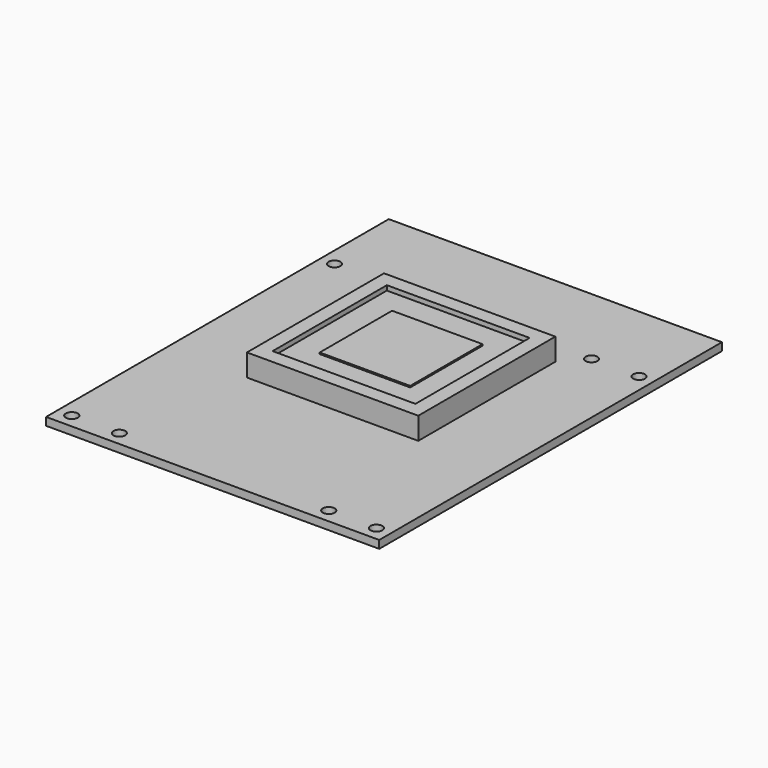
from build123d import *

# Parameters (mm, degrees)
F1_W      = 70
F1_H      = 90
F1_R      = 1.25
F2_DEPTH  = 1.65
F3_W      = 36
F3_H      = 36
F3_W_2    = 30
F3_H_2    = 30
F4_DEPTH  = 4.65
F5_DEPTH  = 0.5
F6_W      = 30
F6_H      = 30
F6_W_2    = 19
F6_H_2    = 19
F7_DEPTH  = 3.15
F8_DEPTH  = 2.15
F9_W      = 3.66
F9_H      = 4.75
F9_W_2    = 2.6
F9_H_2    = 1.96
F10_DEPTH = 1
F11_DEPTH = 1
F12_W     = 19
F12_H     = 19
F13_DEPTH = 1.3


with BuildPart() as f2:
    # F1 (on Top) → F2 (new body)
    with BuildSketch(Plane.XY):
        with Locations((0, -4.5)):
            Rectangle(F1_W, F1_H)
        with Locations((-32, -46.5)):
            Circle(F1_R, mode=Mode.SUBTRACT)
        with Locations((-22, -46.5)):
            Circle(F1_R, mode=Mode.SUBTRACT)
        with Locations((22, -46.5)):
            Circle(F1_R, mode=Mode.SUBTRACT)
        with Locations((32, -46.5)):
            Circle(F1_R, mode=Mode.SUBTRACT)
        with Locations((-32, 22.5)):
            Circle(F1_R, mode=Mode.SUBTRACT)
        with Locations((-22, 22.5)):
            Circle(F1_R, mode=Mode.SUBTRACT)
        with Locations((22, 22.5)):
            Circle(F1_R, mode=Mode.SUBTRACT)
        with Locations((32, 22.5)):
            Circle(F1_R, mode=Mode.SUBTRACT)
    extrude(amount=F2_DEPTH)


with BuildPart() as f4:
    # F3 (on face) → F4 (new body)
    with BuildSketch(Plane.XY.offset(1.65)):
        Rectangle(F3_W, F3_H)
        Rectangle(F3_W_2, F3_H_2, mode=Mode.SUBTRACT)
    extrude(amount=F4_DEPTH)

    # F3 (on face) → F5 (join)
    with BuildSketch(Plane.XY.offset(1.65)):
        Rectangle(F3_W_2, F3_H_2)
    extrude(amount=F5_DEPTH)


with BuildPart() as f7:
    # F6 (on face) → F7 (new body)
    with BuildSketch(Plane.XY.offset(2.15)):
        Rectangle(F6_W, F6_H)
        Rectangle(F6_W_2, F6_H_2, mode=Mode.SUBTRACT)
    extrude(amount=F7_DEPTH)

    # F6 (on face) → F8 (join)
    with BuildSketch(Plane.XY.offset(2.15)):
        Rectangle(F6_W_2, F6_H_2)
    extrude(amount=F8_DEPTH)


with BuildPart() as f10:
    # F9 (on face) → F10 (new body)
    with BuildSketch(Plane.XY.offset(4.3)):
        with Locations((1.5065e-05, 1.53106e-05)):
            Rectangle(F9_W, F9_H)
        with Locations((0.020015065, 0.6650153106)):
            Rectangle(F9_W_2, F9_H_2, mode=Mode.SUBTRACT)
    extrude(amount=F10_DEPTH)


with BuildPart() as f11:
    # F9 (on face) → F11 (new body)
    with BuildSketch(Plane.XY.offset(4.3)):
        with Locations((0.020015065, 0.6650153106)):
            Rectangle(F9_W_2, F9_H_2)
    extrude(amount=F11_DEPTH)


with BuildPart() as f13:
    # F12 (on face) → F13 (new body)
    with BuildSketch(Plane.XY.offset(4.3)):
        Rectangle(F12_W, F12_H)
    extrude(amount=F13_DEPTH)


solid = Compound([f2.part, f4.part, f7.part, f10.part, f11.part, f13.part])
